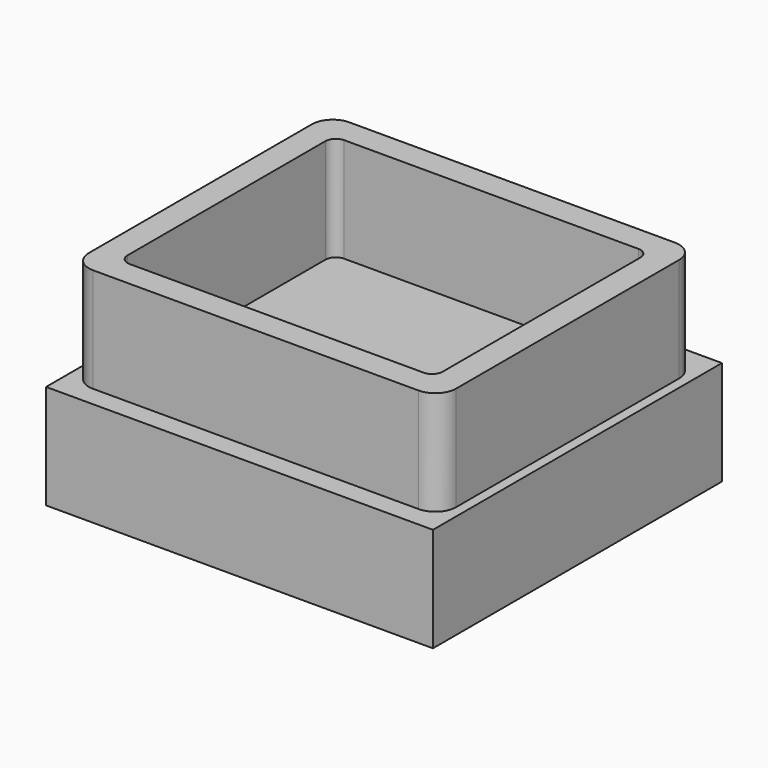
from build123d import *

# Parameters (mm, degrees)
F0_W     = 89.387954
F0_H     = 77.989534
F0_W_2   = 76.687954
F0_H_2   = 65.289534
F1_DEPTH = 25.4
F2_R     = 5.08
F3_R     = 2.54
F4_W     = 94.174876
F4_H     = 87.917894
F5_DEPTH = 25.4


with BuildPart() as f1:
    # F0 (on Top) → F1 (new body)
    with BuildSketch(Plane.XY):
        Rectangle(F0_W, F0_H)
        Rectangle(F0_W_2, F0_H_2, mode=Mode.SUBTRACT)
    extrude(amount=F1_DEPTH)

    # F2
    f2_edges = [f1.edges().sort_by_distance(p)[0] for p in [
        (-44.693977, -38.994767, 12.7),
        (44.693977, -38.994767, 12.7),
        (44.693977, 38.994767, 12.7),
        (-44.693977, 38.994767, 12.7),
    ]]
    fillet(f2_edges, radius=F2_R)

    # F3
    f3_edges = [f1.edges().sort_by_distance(p)[0] for p in [
        (-38.343977, 32.644767, 12.7),
        (38.343977, 32.644767, 12.7),
        (38.343977, -32.644767, 12.7),
        (-38.343977, -32.644767, 12.7),
    ]]
    fillet(f3_edges, radius=F3_R)

    # F4 (on Top) → F5 (join)
    with BuildSketch(Plane.XY):
        Rectangle(F4_W, F4_H)
    extrude(amount=-F5_DEPTH)


solid = f1.part
